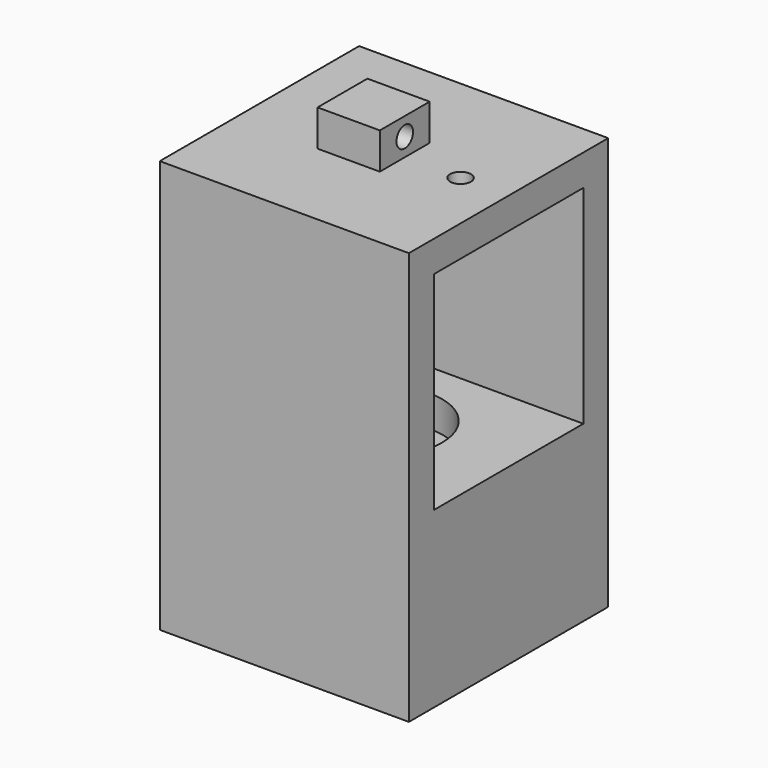
from build123d import *

# Parameters (mm, degrees)
F0_W      = 1219.2
F0_H      = 1219.2
F1_DEPTH  = 850.9
F2_R      = 152.4
F3_DEPTH  = 304.8
F4_R      = 285.75
F5_DEPTH  = 152.4
F7_DEPTH  = 1016
F8_W      = 1219.2
F8_H      = 1219.2
F9_DEPTH  = 152.4
F10_W     = 203.2
F10_H     = 304.8
F11_DEPTH = 177.8
F12_R     = 50.8
F13_DEPTH = 622.3
F15_DEPTH = 304.8
F16_R     = 50.8
F17_DEPTH = 304.8


with BuildPart() as f1:
    # F0 (on Top) → F1 (new body)
    with BuildSketch(Plane.XY):
        Rectangle(F0_W, F0_H)
    extrude(amount=F1_DEPTH)

    # F2 (on face) → F3 (cut)
    with BuildSketch(Plane.XY.offset(850.9)):
        Circle(F2_R)
    extrude(amount=-F3_DEPTH, mode=Mode.SUBTRACT)

    # F4 (on face) → F5 (cut)
    with BuildSketch(Plane.XY.offset(850.9)):
        Circle(F4_R)
    extrude(amount=-F5_DEPTH, mode=Mode.SUBTRACT)

    # F6 (on face) → F7 (join)
    with BuildSketch(Plane.XY.offset(850.9)):
        Polygon((-609.6, -609.6), (609.6, -609.6), (609.6, -457.2), (-457.2, -457.2), (-457.2, 457.2), (609.6, 457.2), (609.6, 609.6), (-609.6, 609.6), align=None)
    extrude(amount=F7_DEPTH)

    # F8 (on face) → F9 (join)
    with BuildSketch(Plane.XY.offset(1866.9)):
        Rectangle(F8_W, F8_H)
    extrude(amount=F9_DEPTH)

    # F10 (on face) → F11 (join)
    with BuildSketch(Plane.XY.offset(2019.3)):
        Rectangle(F10_W, F10_H)
    extrude(amount=F11_DEPTH)

    # F12 (on face) → F13 (cut)
    with BuildSketch(Plane.YZ.offset(101.6)):
        with Locations((0, 2108.2)):
            Circle(F12_R)
    extrude(amount=-F13_DEPTH, mode=Mode.SUBTRACT)

    # F15 (add): a face of the model
    f15_faces = [f1.faces().sort_by_distance(p)[0] for p in [
        (101.6, -148.8713192267, 2108.2),
    ]]
    extrude(f15_faces, amount=-F15_DEPTH)

    # F16 (on face) → F17 (cut)
    with BuildSketch(Plane.XY.offset(2019.3)):
        with Locations((374.4671290531, 0)):
            Circle(F16_R)
    extrude(amount=-F17_DEPTH, mode=Mode.SUBTRACT)


solid = f1.part
